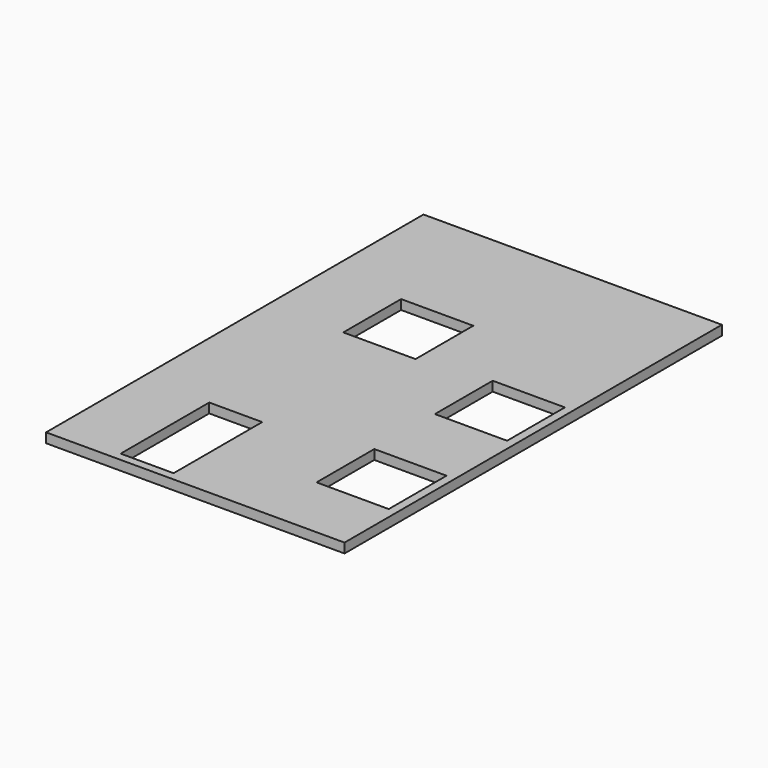
from build123d import *

# Parameters (mm, degrees)
F1_W     = 62
F1_H     = 98
F1_W_2   = 11
F1_H_2   = 23
F1_W_3   = 15
F1_H_3   = 15
F2_DEPTH = 2


with BuildPart() as f2:
    # F1 (on face) → F2 (new body)
    with BuildSketch(Plane.XY):
        with Locations((-10.753988, 24.285904)):
            Rectangle(F1_W, F1_H)
        with Locations((-22.130956, -11.5)):
            Rectangle(F1_W_2, F1_H_2, mode=Mode.SUBTRACT)
        with Locations((10.992008, -3.538037)):
            Rectangle(F1_W_3, F1_H_3, mode=Mode.SUBTRACT)
        with Locations((-18.53059, 40.315702)):
            Rectangle(F1_W_3, F1_H_3, mode=Mode.SUBTRACT)
        with Locations((10.992008, 27.195876)):
            Rectangle(F1_W_3, F1_H_3, mode=Mode.SUBTRACT)
    extrude(amount=F2_DEPTH)


solid = f2.part
